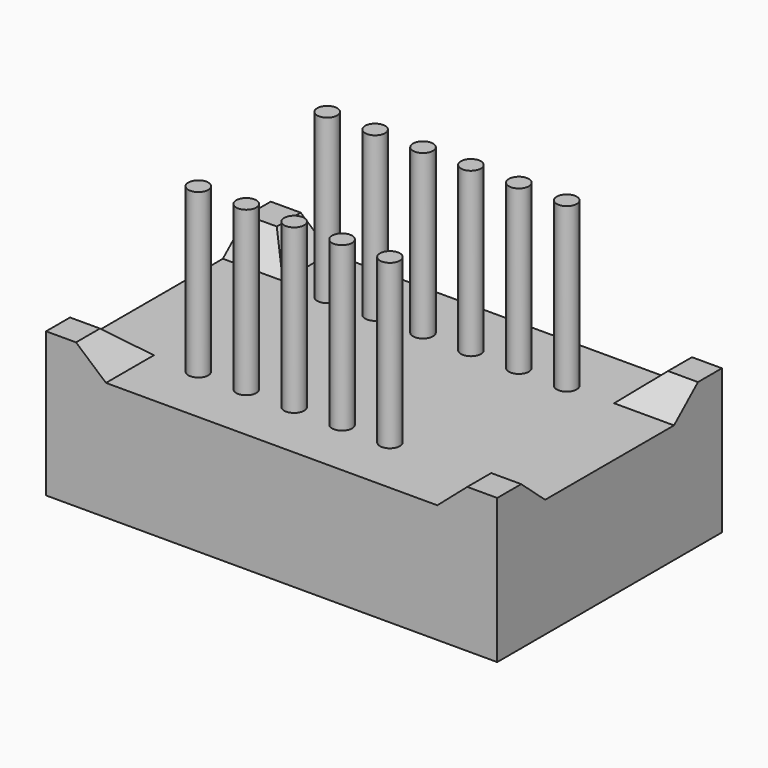
from build123d import *

# Parameters (mm, degrees)
F0_W     = 22.6
F0_H     = 14.07
F1_DEPTH = 7.24
F3_DEPTH = 25
F5_DEPTH = 25
F6_R     = 0.5
F7_DEPTH = 8.18


with BuildPart() as f1:
    # F0 (on Top) → F1 (new body)
    with BuildSketch(Plane.XY):
        Rectangle(F0_W, F0_H)
    extrude(amount=F1_DEPTH)

    # F2 (on face) → F3 (cut)
    with BuildSketch(Plane.XZ.offset(7.035)):
        Polygon((0, 7.24), (-9.8, 7.24), (-8.3, 5.94), (0, 5.94), (8.3, 5.94), (9.8, 7.24), align=None)
    extrude(amount=-F3_DEPTH, mode=Mode.SUBTRACT)

    # F4 (on face) → F5 (cut)
    with BuildSketch(Plane(origin=(-11.3, 0, 0), x_dir=(0, -1, 0), z_dir=(-1, 0, 0))):
        Polygon((0, 7.24), (-5.535, 7.24), (-4.035, 5.94), (0, 5.94), (4.035, 5.94), (5.535, 7.24), align=None)
    extrude(amount=-F5_DEPTH, mode=Mode.SUBTRACT)

    # F6 (on face) → F7 (join)
    with BuildSketch(Plane.XY.offset(5.94)):
        with Locations((-6.073824, -4.035)):
            Circle(F6_R)
        with Locations((-6.073824, 4.035)):
            Circle(F6_R)
        with Locations((-3.673824, 4.035)):
            Circle(F6_R)
        with Locations((-1.273824, 4.035)):
            Circle(F6_R)
        with Locations((1.126176, 4.035)):
            Circle(F6_R)
        with Locations((3.526176, 4.035)):
            Circle(F6_R)
        with Locations((5.926176, 4.035)):
            Circle(F6_R)
        with Locations((-3.673824, -4.035)):
            Circle(F6_R)
        with Locations((-1.273824, -4.035)):
            Circle(F6_R)
        with Locations((1.126176, -4.035)):
            Circle(F6_R)
        with Locations((3.526176, -4.035)):
            Circle(F6_R)
    extrude(amount=F7_DEPTH)


solid = f1.part
